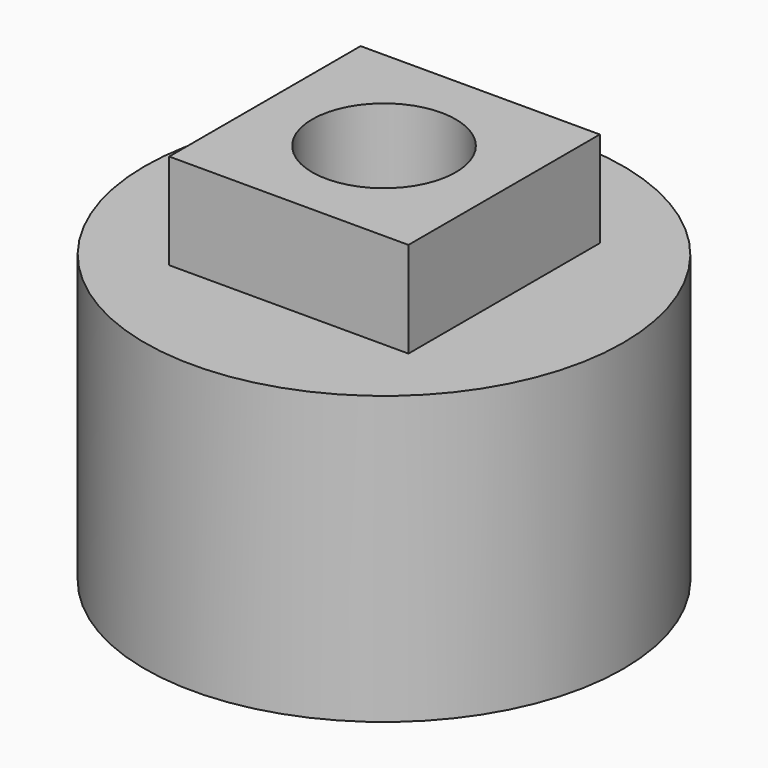
from build123d import *

# Parameters (mm, degrees)
F3_W      = 63.5
F3_H      = 25.4
F4_DEPTH  = 31.75
F4_FACE_W = 63.5
F4_FACE_H = 25.4
F5_DEPTH  = 31.75
F2_R      = 63.5
F6_DEPTH  = 76.2
F7_D      = 38.1


with BuildPart() as f4:
    # F3 (on Right) → F4 (new body)
    with BuildSketch(Plane.YZ):
        with Locations((0.173381, 12.7)):
            Rectangle(F3_W, F3_H)
    extrude(amount=F4_DEPTH)

    # F4_face (on face) → F5 (join)
    with BuildSketch(Plane(origin=(0, 0.173381, 12.7), x_dir=(0, 1, 0), z_dir=(-1, 0, 0))):
        Rectangle(F4_FACE_W, F4_FACE_H)
    extrude(amount=F5_DEPTH)

    # F2 (on Top) → F6 (join)
    with BuildSketch(Plane.XY):
        Circle(F2_R)
    extrude(amount=-F6_DEPTH)

    # F7 (through all)
    with Locations(Plane.XY.offset(25.4)):
        with Locations((0, 0)):
            Hole(F7_D / 2)


solid = f4.part
